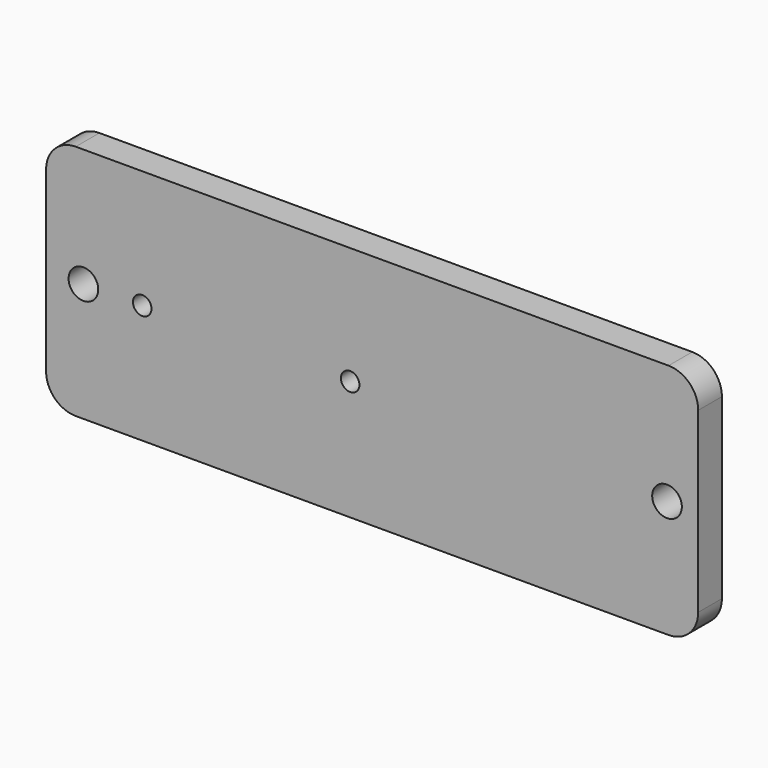
from build123d import *

# Parameters (mm, degrees)
F0_W     = 279.4
F0_H     = 101.6
F1_DEPTH = 12.7
F2_R     = 12.7
F3_R     = 6.35
F3_R_2   = 3.96875
F4_DEPTH = 22.86


with BuildPart() as f1:
    # F0 (on Front) → F1 (new body)
    with BuildSketch(Plane.XZ):
        with Locations((139.7, 50.8)):
            Rectangle(F0_W, F0_H)
    extrude(amount=F1_DEPTH)

    # F2
    f2_edges = [f1.edges().sort_by_distance(p)[0] for p in [
        (0, -6.35, 101.6),
        (279.4, -6.35, 101.6),
        (279.4, -6.35, 0),
        (0, -6.35, 0),
    ]]
    fillet(f2_edges, radius=F2_R)

    # F3 (on Front) → F4 (cut)
    with BuildSketch(Plane.XZ):
        with Locations((15.989296, 50.838098)):
            Circle(F3_R)
        with Locations((41.200113, 50.979976)):
            Circle(F3_R_2)
        with Locations((130.282387, 51.25564)):
            Circle(F3_R_2)
        with Locations((266.039491, 50.202426)):
            Circle(F3_R)
    extrude(amount=F4_DEPTH, mode=Mode.SUBTRACT)


solid = f1.part
